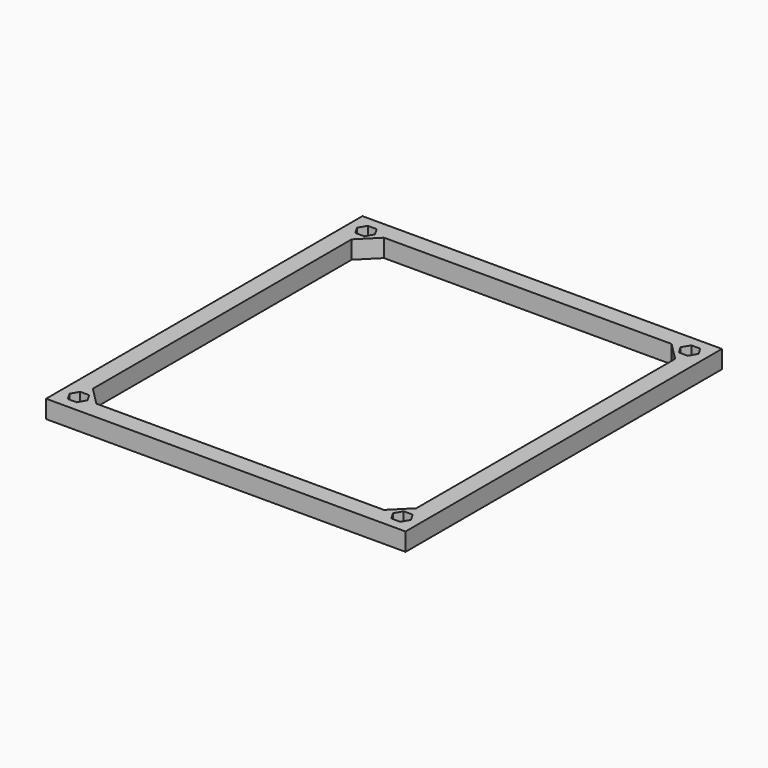
from build123d import *

# Parameters (mm, degrees)
F1_DEPTH = 12.7
F3_DEPTH = 6.35
F4_R     = 1.524
F5_DEPTH = 6.351
F6_R     = 2.54
F7_DEPTH = 3.175


with BuildPart() as f1:
    # F0 (on Top) → F1 (new body)
    with BuildSketch(Plane.XY):
        Polygon((127, 114.3), (127, 139.7), (101.6, 139.7), (-101.6, 139.7), (-127, 139.7), (-127, 114.3), (-127, -114.3), (-127, -139.7), (-101.6, -139.7), (101.6, -139.7), (127, -139.7), (127, -114.3), align=None)
        Polygon((-101.6, 127), (101.6, 127), (114.3, 114.3), (114.3, -114.3), (101.6, -127), (-101.6, -127), (-114.3, -114.3), (-114.3, 114.3), align=None, mode=Mode.SUBTRACT)
    extrude(amount=F1_DEPTH)

    # F2 (on face) → F3 (cut)
    with BuildSketch(Plane.XY.offset(12.7)):
        Polygon((111.125, -121.500739), (107.95, -127), (111.125, -132.499261), (117.475, -132.499261), (120.65, -127), (117.475, -121.500739), align=None)
        Polygon((-117.475, -132.499261), (-111.125, -132.499261), (-107.95, -127), (-111.125, -121.500739), (-117.475, -121.500739), (-120.65, -127), align=None)
        Polygon((-107.95, 127), (-111.125, 132.499261), (-117.475, 132.499261), (-120.65, 127), (-117.475, 121.500739), (-111.125, 121.500739), align=None)
        Polygon((120.65, 127), (117.475, 132.499261), (111.125, 132.499261), (107.95, 127), (111.125, 121.500739), (117.475, 121.500739), align=None)
    extrude(amount=-F3_DEPTH, mode=Mode.SUBTRACT)

    # F4 (on face) → F5 (cut, through all)
    with BuildSketch(Plane.XY.offset(6.35)):
        with Locations((-114.3, 127)):
            Circle(F4_R)
        with Locations((114.3, 127)):
            Circle(F4_R)
        with Locations((114.3, -127)):
            Circle(F4_R)
        with Locations((-114.3, -127)):
            Circle(F4_R)
    extrude(amount=-F5_DEPTH, mode=Mode.SUBTRACT)

    # F6 (on face) → F7 (cut)
    with BuildSketch(Plane(origin=(0, 0, 0), x_dir=(1, 0, 0), z_dir=(0, 0, -1))):
        with Locations((-114.3, 127)):
            Circle(F6_R)
        with Locations((114.3, 127)):
            Circle(F6_R)
        with Locations((-114.3, -127)):
            Circle(F6_R)
        with Locations((114.3, -127)):
            Circle(F6_R)
    extrude(amount=-F7_DEPTH, mode=Mode.SUBTRACT)


solid = f1.part
